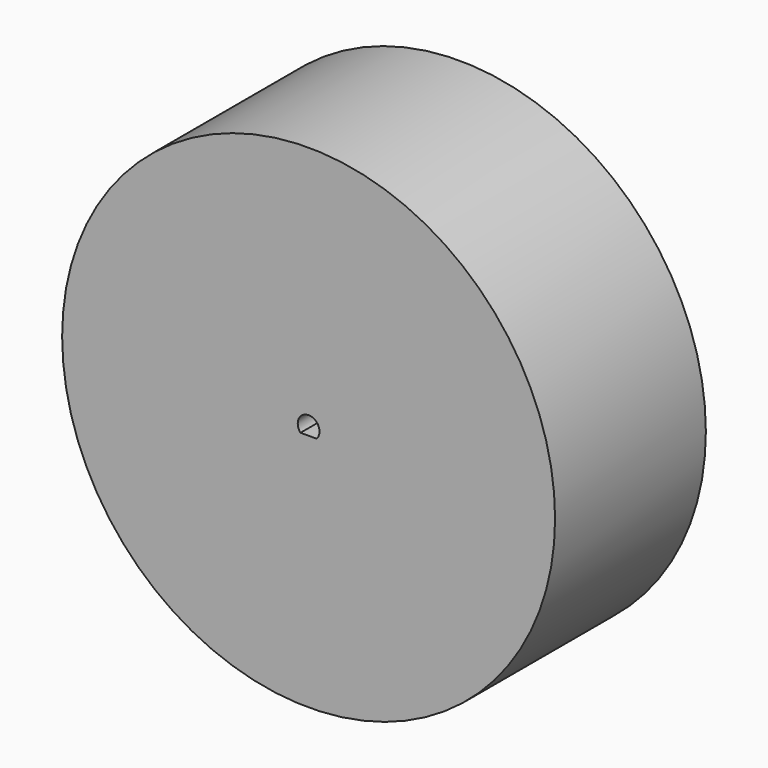
from build123d import *

# Parameters (mm, degrees)
F0_R     = 34
F1_DEPTH = 26
F3_DEPTH = 10


with BuildPart() as f1:
    # F0 (on Front) → F1 (new body)
    with BuildSketch(Plane.XZ):
        Circle(F0_R)
    extrude(amount=F1_DEPTH)

    # F2 (on face) → F3 (cut)
    with BuildSketch(Plane.XZ.offset(26)):
        with BuildLine():
            Line((0, -1), (0, 1.5))
            ThreePointArc((0, 1.5), (-1.369306, 0.612372), (-1.118034, -1))
            Line((-1.118034, -1), (0, -1))
        make_face()
        with BuildLine():
            ThreePointArc((1.118034, -1), (1.401259, -0.535233), (1.5, 0))
            ThreePointArc((1.5, 0), (1.06066, 1.06066), (0, 1.5))
            Line((0, 1.5), (0, -1))
            Line((0, -1), (1.118034, -1))
        make_face()
    extrude(amount=-F3_DEPTH, mode=Mode.SUBTRACT)


solid = f1.part
